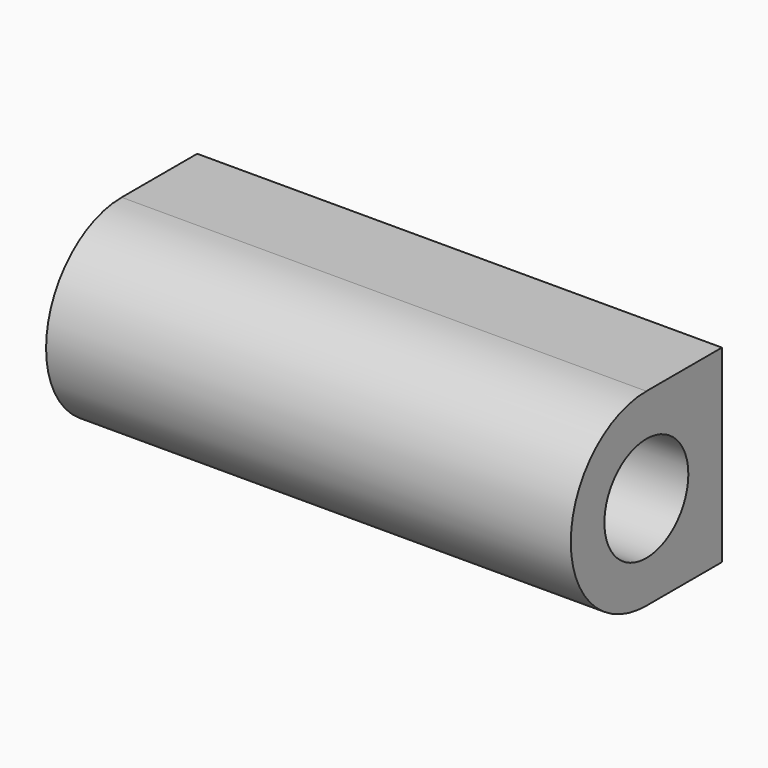
from build123d import *

# Parameters (mm, degrees)
F0_R     = 2.5
F1_DEPTH = 25


with BuildPart() as f1:
    # F0 (on Right) → F1 (new body)
    with BuildSketch(Plane.YZ):
        with BuildLine():
            Line((4.5, 4.5), (0, 4.5))
            ThreePointArc((0, 4.5), (-4.5, 0), (0, -4.5))
            Line((0, -4.5), (4.5, -4.5))
            Line((4.5, -4.5), (4.5, 4.5))
        make_face()
        Circle(F0_R, mode=Mode.SUBTRACT)
    extrude(amount=F1_DEPTH)


solid = f1.part
